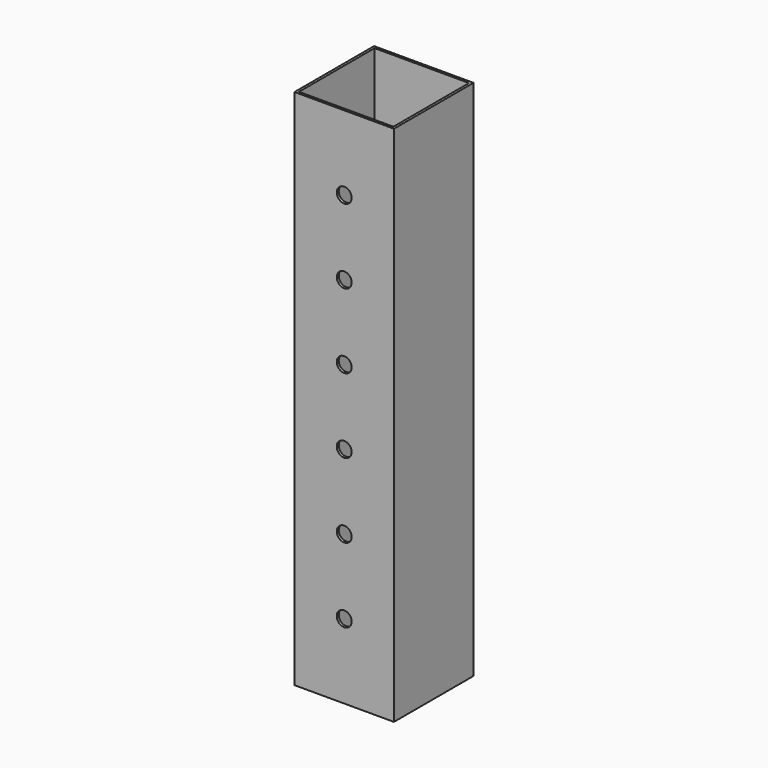
from build123d import *

# Parameters (mm, degrees)
F0_W     = 20
F0_H     = 20
F0_W_2   = 19
F0_H_2   = 19
F1_DEPTH = 105
F2_R     = 1.5
F3_DEPTH = 25


with BuildPart() as f1:
    # F0 (on Top) → F1 (new body)
    with BuildSketch(Plane.XY):
        Rectangle(F0_W, F0_H)
        Rectangle(F0_W_2, F0_H_2, mode=Mode.SUBTRACT)
    extrude(amount=F1_DEPTH)

    # F2 (on face) → F3 (cut)
    with BuildSketch(Plane(origin=(0, 10, 0), x_dir=(-1, 0, 0), z_dir=(0, 1, 0))):
        with Locations((0, 90)):
            Circle(F2_R)
        with Locations((0, 75)):
            Circle(F2_R)
        with Locations((0, 60)):
            Circle(F2_R)
        with Locations((0, 45)):
            Circle(F2_R)
        with Locations((0, 30)):
            Circle(F2_R)
        with Locations((0, 15)):
            Circle(F2_R)
    extrude(amount=-F3_DEPTH, mode=Mode.SUBTRACT)


solid = f1.part
